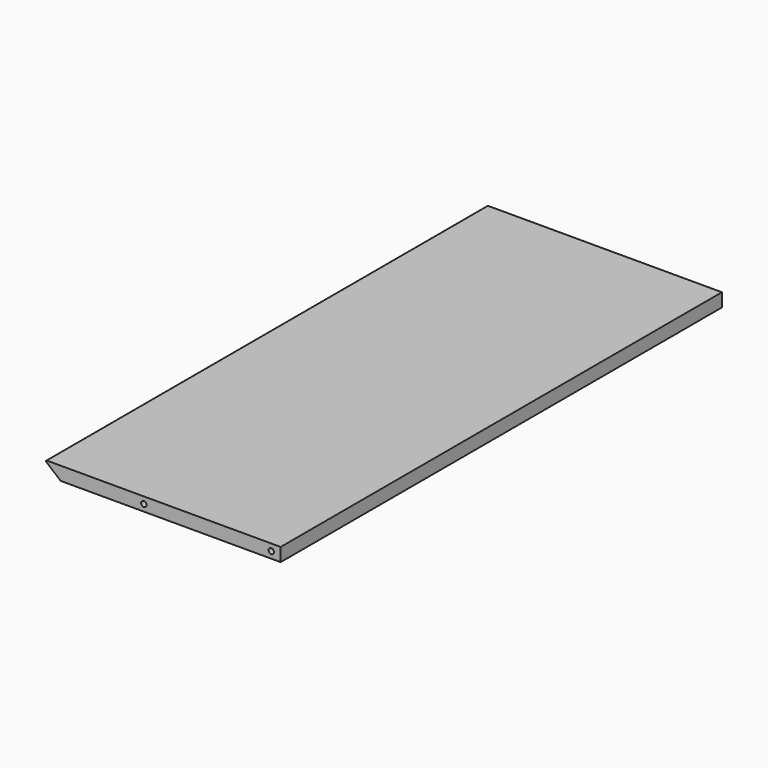
from build123d import *

# Parameters (mm, degrees)
F0_W     = 410
F0_H     = 1028
F1_DEPTH = 25
F2_R     = 5
F3_DEPTH = 14
F4_R     = 5
F5_DEPTH = 14
F7_DEPTH = 1028
F8_W     = 310
F8_H     = 940
F9_DEPTH = 19


with BuildPart() as f1:
    # F0 (on Top) → F1 (new body)
    with BuildSketch(Plane.XY):
        Rectangle(F0_W, F0_H)
    extrude(amount=F1_DEPTH)

    # F2 (on face) → F3 (cut)
    with BuildSketch(Plane.XZ.offset(514)):
        with Locations((187.5, 12.5)):
            Circle(F2_R)
        with Locations((-50, 12.5)):
            Circle(F2_R)
    extrude(amount=-F3_DEPTH, mode=Mode.SUBTRACT)

    # F4 (on face) → F5 (cut)
    with BuildSketch(Plane(origin=(0, 514, 0), x_dir=(-1, 0, 0), z_dir=(0, 1, 0))):
        with Locations((-187.5, 12.5625)):
            Circle(F4_R)
        with Locations((50, 12.5625)):
            Circle(F4_R)
    extrude(amount=-F5_DEPTH, mode=Mode.SUBTRACT)

    # F6 (on face) → F7 (join)
    with BuildSketch(Plane.XZ.offset(514)):
        with BuildLine():
            Line((-205, 0.342944), (-205, 25))
            Line((-205, 25), (-230.672767, 25))
            ThreePointArc((-230.672767, 25), (-232.082307, 24.013028), (-231.636945, 22.350931))
            Line((-231.636945, 22.350931), (-206.394084, 1.169769))
            ThreePointArc((-206.394084, 1.169769), (-205.730769, 0.699491), (-205, 0.342944))
        make_face()
    extrude(amount=-F7_DEPTH)

    # F8 (on face) → F9 (cut)
    with BuildSketch(Plane(origin=(0, 0, 0), x_dir=(1, 0, 0), z_dir=(0, 0, -1))):
        with Locations((0, -4)):
            Rectangle(F8_W, F8_H)
    extrude(amount=-F9_DEPTH, mode=Mode.SUBTRACT)


solid = f1.part
